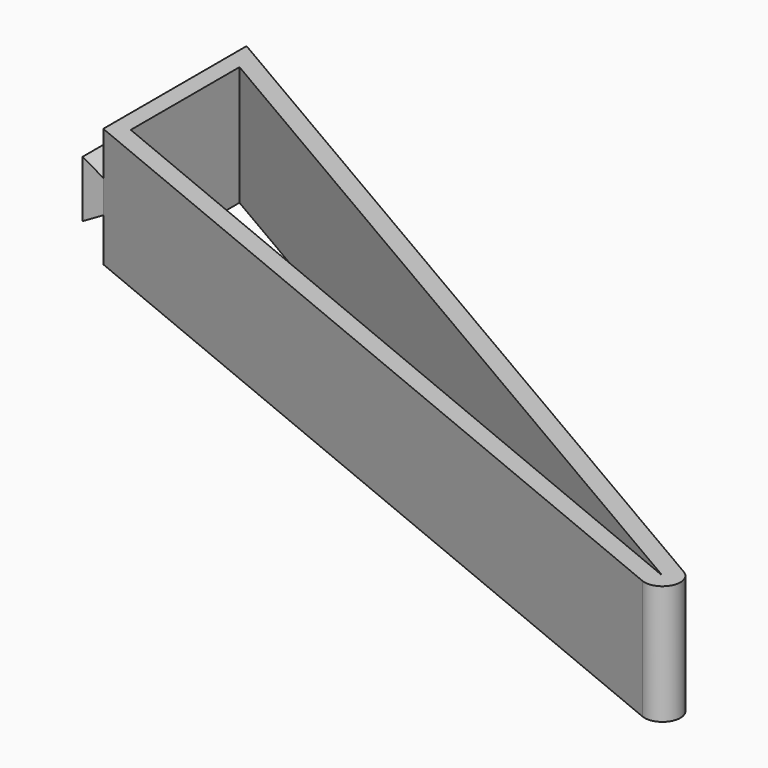
from build123d import *

# Parameters (mm, degrees)
F1_DEPTH = 20
F3_DEPTH = 30


with BuildPart() as f1:
    # F0 (on Top) → F1 (new body)
    with BuildSketch(Plane.XY):
        with BuildLine():
            Line((0, 30), (0, 0))
            Line((0, 0), (135.051266, -55.940066))
            ThreePointArc((135.051266, -55.940066), (138.886071, -54.503098), (137.714375, -50.579104))
            Line((137.714375, -50.579104), (0, 30))
        make_face()
        Polygon((3, 2.004536), (3, 24.768836), (136.199316, -53.168427), align=None, mode=Mode.SUBTRACT)
    extrude(amount=F1_DEPTH)

    # F2 (on Front) → F3 (join)
    with BuildSketch(Plane.XZ):
        Polygon((0, 7.25), (0, 12.75), (-3.464102, 14.75), (-3.464102, 5.25), align=None)
    extrude(amount=-F3_DEPTH)


solid = f1.part
